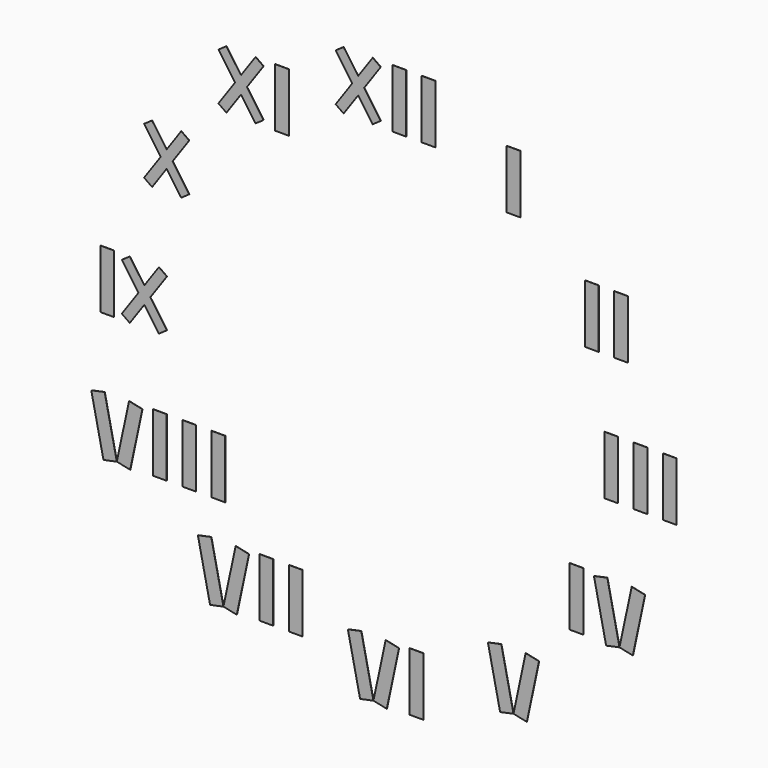
from build123d import *

# Parameters (mm, degrees)
F1_W      = 35
F1_H      = 150
F13_DEPTH = 0.5
F2_W      = 35
F2_H      = 150
F3_W      = 35
F3_H      = 150
F4_W      = 35
F4_H      = 150
F6_W      = 35
F6_H      = 150
F7_W      = 35
F7_H      = 150
F8_W      = 35
F8_H      = 150
F9_W      = 35
F9_H      = 150
F11_W     = 35
F11_H     = 150
F12_W     = 35
F12_H     = 150


with BuildPart() as f13:
    # F1 (on Front) → F13 (new body)
    with BuildSketch(Plane.XZ):
        with Locations((325, 562.9165124599)):
            Rectangle(F1_W, F1_H)
    extrude(amount=F13_DEPTH)


with BuildPart() as f13b:
    # F2 (on Front) → F13, piece 2 (new body)
    with BuildSketch(Plane.XZ):
        with Locations((525.4165124599, 325)):
            Rectangle(F2_W, F2_H)
    extrude(amount=F13_DEPTH)


with BuildPart() as f13c:
    # F2 (on Front) → F13, piece 3 (new body)
    with BuildSketch(Plane.XZ):
        with Locations((600.4165124599, 325)):
            Rectangle(F2_W, F2_H)
    extrude(amount=F13_DEPTH)


with BuildPart() as f13d:
    # F3 (on Front) → F13, piece 4 (new body)
    with BuildSketch(Plane.XZ):
        with Locations((575, 0)):
            Rectangle(F3_W, F3_H)
    extrude(amount=F13_DEPTH)


with BuildPart() as f13e:
    # F3 (on Front) → F13, piece 5 (new body)
    with BuildSketch(Plane.XZ):
        with Locations((650, 0)):
            Rectangle(F3_W, F3_H)
    extrude(amount=F13_DEPTH)


with BuildPart() as f13f:
    # F3 (on Front) → F13, piece 6 (new body)
    with BuildSketch(Plane.XZ):
        with Locations((725, 0)):
            Rectangle(F3_W, F3_H)
    extrude(amount=F13_DEPTH)


with BuildPart() as f13g:
    # F4 (on Front) → F13, piece 7 (new body)
    with BuildSketch(Plane.XZ):
        with Locations((486.4008496814, -325)):
            Rectangle(F4_W, F4_H)
    extrude(amount=F13_DEPTH)


with BuildPart() as f13h:
    # F4 (on Front) → F13, piece 8 (new body)
    with BuildSketch(Plane.XZ):
        Polygon((627.587603304, -251.638929945), (596.4008496814, -398.361070055), (630.636015707, -405.6379792337), (661.8227693297, -258.9158391236), align=None)
    extrude(amount=F13_DEPTH)


with BuildPart() as f13i:
    # F4 (on Front) → F13, piece 9 (new body)
    with BuildSketch(Plane.XZ):
        Polygon((565.2140960587, -251.638929945), (530.978930033, -258.9158391236), (562.1656836557, -405.6379792337), (596.4008496814, -398.361070055), align=None)
    extrude(amount=F13_DEPTH)


with BuildPart() as f13j:
    # F5 (on Front) → F13, piece 10 (new body)
    with BuildSketch(Plane.XZ):
        Polygon((356.1867536227, -489.5554424048), (325, -636.2775825149), (359.2351660257, -643.5544916935), (390.4219196483, -496.8323515835), align=None)
    extrude(amount=F13_DEPTH)


with BuildPart() as f13k:
    # F5 (on Front) → F13, piece 11 (new body)
    with BuildSketch(Plane.XZ):
        Polygon((293.8132463773, -489.5554424049), (259.5780803517, -496.8323515835), (290.7648339743, -643.5544916935), (325, -636.2775825149), align=None)
    extrude(amount=F13_DEPTH)


with BuildPart() as f13l:
    # F6 (on Front) → F13, piece 12 (new body)
    with BuildSketch(Plane.XZ):
        with Locations((76.5156627785, -650)):
            Rectangle(F6_W, F6_H)
    extrude(amount=F13_DEPTH)


with BuildPart() as f13m:
    # F6 (on Front) → F13, piece 13 (new body)
    with BuildSketch(Plane.XZ):
        Polygon((-2.2975835988, -576.638929945), (-33.4843372215, -723.361070055), (0.7508288042, -730.6379792337), (31.9375824269, -583.9158391236), align=None)
    extrude(amount=F13_DEPTH)


with BuildPart() as f13n:
    # F6 (on Front) → F13, piece 14 (new body)
    with BuildSketch(Plane.XZ):
        Polygon((-64.6710908441, -576.638929945), (-98.9062568698, -583.9158391236), (-67.7195032472, -730.6379792337), (-33.4843372215, -723.361070055), align=None)
    extrude(amount=F13_DEPTH)


with BuildPart() as f13o:
    # F7 (on Front) → F13, piece 15 (new body)
    with BuildSketch(Plane.XZ):
        with Locations((-307.5, -562.9165124599)):
            Rectangle(F7_W, F7_H)
    extrude(amount=F13_DEPTH)


with BuildPart() as f13p:
    # F7 (on Front) → F13, piece 16 (new body)
    with BuildSketch(Plane.XZ):
        Polygon((-386.3132463773, -489.5554424049), (-417.5, -636.2775825149), (-383.2648339743, -643.5544916935), (-352.0780803517, -496.8323515835), align=None)
    extrude(amount=F13_DEPTH)


with BuildPart() as f13q:
    # F7 (on Front) → F13, piece 17 (new body)
    with BuildSketch(Plane.XZ):
        Polygon((-448.6867536227, -489.5554424049), (-482.9219196483, -496.8323515835), (-451.7351660257, -643.5544916935), (-417.5, -636.2775825149), align=None)
    extrude(amount=F13_DEPTH)


with BuildPart() as f13r:
    # F7 (on Front) → F13, piece 18 (new body)
    with BuildSketch(Plane.XZ):
        with Locations((-232.5, -562.9165124599)):
            Rectangle(F7_W, F7_H)
    extrude(amount=F13_DEPTH)


with BuildPart() as f13s:
    # F8 (on Front) → F13, piece 19 (new body)
    with BuildSketch(Plane.XZ):
        with Locations((-580.4165124599, -325)):
            Rectangle(F8_W, F8_H)
    extrude(amount=F13_DEPTH)


with BuildPart() as f13t:
    # F8 (on Front) → F13, piece 20 (new body)
    with BuildSketch(Plane.XZ):
        Polygon((-659.2297588372, -251.638929945), (-690.4165124599, -398.361070055), (-656.1813464342, -405.6379792337), (-624.9945928115, -258.9158391236), align=None)
    extrude(amount=F13_DEPTH)


with BuildPart() as f13u:
    # F8 (on Front) → F13, piece 21 (new body)
    with BuildSketch(Plane.XZ):
        Polygon((-721.6032660825, -251.638929945), (-755.8384321082, -258.9158391236), (-724.6516784856, -405.6379792337), (-690.4165124599, -398.361070055), align=None)
    extrude(amount=F13_DEPTH)


with BuildPart() as f13v:
    # F8 (on Front) → F13, piece 22 (new body)
    with BuildSketch(Plane.XZ):
        with Locations((-505.4165124599, -325)):
            Rectangle(F8_W, F8_H)
    extrude(amount=F13_DEPTH)


with BuildPart() as f13w:
    # F8 (on Front) → F13, piece 23 (new body)
    with BuildSketch(Plane.XZ):
        with Locations((-430.4165124599, -325)):
            Rectangle(F8_W, F8_H)
    extrude(amount=F13_DEPTH)


with BuildPart() as f13x:
    # F9 (on Front) → F13, piece 24 (new body)
    with BuildSketch(Plane.XZ):
        Polygon((-657.2558830062, 75), (-677.7346841134, 60.6605890912), (-635.2596823595, 0), (-631.8485692054, 4.8715744519), (-611.3697680981, -9.4678364569), (-620, -21.7930849453), (-582.7441169938, -75), (-562.2653158866, -60.6605890912), (-604.7403176405, 0), (-608.1514307946, -4.8715744519), (-628.6302319019, 9.4678364569), (-620, 21.7930849453), align=None)
        Polygon((-631.8485692054, 4.8715744519), (-635.2596823595, 0), (-620, -21.7930849453), (-611.3697680981, -9.4678364569), align=None)
        Polygon((-620, -21.7930849453), (-635.2596823595, 0), (-677.7346841134, -60.6605890912), (-657.2558830062, -75), align=None)
        Polygon((-582.7441169938, 75), (-620, 21.7930849453), (-604.7403176405, 0), (-562.2653158866, 60.6605890912), align=None)
        Polygon((-604.7403176405, 0), (-620, 21.7930849453), (-628.6302319019, 9.4678364569), (-608.1514307946, -4.8715744519), align=None)
    extrude(amount=F13_DEPTH)


with BuildPart() as f13y:
    # F9 (on Front) → F13, piece 25 (new body)
    with BuildSketch(Plane.XZ):
        with Locations((-715.2346841134, 0)):
            Rectangle(F9_W, F9_H)
    extrude(amount=F13_DEPTH)


with BuildPart() as f13z:
    # F10 (on Front) → F13, piece 26 (new body)
    with BuildSketch(Plane.XZ):
        Polygon((-600.1723954661, 400), (-620.6511965733, 385.6605890912), (-578.1761948194, 325), (-574.7650816652, 329.8715744519), (-554.286280558, 315.5321635431), (-562.9165124599, 303.2069150547), (-525.6606294537, 250), (-505.1818283465, 264.3394109088), (-547.6568301004, 325), (-551.0679432545, 320.1284255481), (-571.5467443618, 334.4678364569), (-562.9165124599, 346.7930849453), align=None)
        Polygon((-574.7650816652, 329.8715744519), (-578.1761948194, 325), (-562.9165124599, 303.2069150547), (-554.286280558, 315.5321635431), align=None)
        Polygon((-562.9165124599, 303.2069150547), (-578.1761948194, 325), (-620.6511965733, 264.3394109088), (-600.1723954661, 250), align=None)
        Polygon((-525.6606294537, 400), (-562.9165124599, 346.7930849453), (-547.6568301004, 325), (-505.1818283465, 385.6605890912), align=None)
        Polygon((-547.6568301004, 325), (-562.9165124599, 346.7930849453), (-571.5467443618, 334.4678364569), (-551.0679432545, 320.1284255481), align=None)
    extrude(amount=F13_DEPTH)


with BuildPart() as f13ba:
    # F11 (on Front) → F13, piece 27 (new body)
    with BuildSketch(Plane.XZ):
        Polygon((-409.8732250629, 629.256258422), (-430.3520261702, 614.9168475133), (-387.8770244162, 554.256258422), (-384.4659112621, 559.1278328739), (-363.9871101548, 544.7884219652), (-372.6173420567, 532.4631734768), (-335.3614590505, 479.256258422), (-314.8826579433, 493.5956693308), (-357.3576596972, 554.256258422), (-360.7687728514, 549.3846839701), (-381.2475739586, 563.7240948789), (-372.6173420567, 576.0493433673), align=None)
        Polygon((-384.4659112621, 559.1278328739), (-387.8770244162, 554.256258422), (-372.6173420567, 532.4631734768), (-363.9871101548, 544.7884219652), align=None)
        Polygon((-372.6173420567, 532.4631734768), (-387.8770244162, 554.256258422), (-430.3520261702, 493.5956693308), (-409.8732250629, 479.256258422), align=None)
        Polygon((-335.3614590505, 629.256258422), (-372.6173420567, 576.0493433673), (-357.3576596972, 554.256258422), (-314.8826579433, 614.9168475133), align=None)
        Polygon((-357.3576596972, 554.256258422), (-372.6173420567, 576.0493433673), (-381.2475739586, 563.7240948789), (-360.7687728514, 549.3846839701), align=None)
    extrude(amount=F13_DEPTH)


with BuildPart() as f13bb:
    # F11 (on Front) → F13, piece 28 (new body)
    with BuildSketch(Plane.XZ):
        with Locations((-267.3826579433, 554.256258422)):
            Rectangle(F11_W, F11_H)
    extrude(amount=F13_DEPTH)


with BuildPart() as f13bc:
    # F12 (on Front) → F13, piece 29 (new body)
    with BuildSketch(Plane.XZ):
        Polygon((-109.8732250629, 725), (-130.3520261702, 710.6605890912), (-87.8770244162, 650), (-84.4659112621, 654.8715744519), (-63.9871101548, 640.5321635431), (-72.6173420567, 628.2069150547), (-35.3614590505, 575), (-14.8826579433, 589.3394109088), (-57.3576596972, 650), (-60.7687728514, 645.1284255481), (-81.2475739586, 659.4678364569), (-72.6173420567, 671.7930849453), align=None)
        Polygon((-84.4659112621, 654.8715744519), (-87.8770244162, 650), (-72.6173420567, 628.2069150547), (-63.9871101548, 640.5321635431), align=None)
        Polygon((-72.6173420567, 628.2069150547), (-87.8770244162, 650), (-130.3520261702, 589.3394109088), (-109.8732250629, 575), align=None)
        Polygon((-35.3614590505, 725), (-72.6173420567, 671.7930849453), (-57.3576596972, 650), (-14.8826579433, 710.6605890912), align=None)
        Polygon((-57.3576596972, 650), (-72.6173420567, 671.7930849453), (-81.2475739586, 659.4678364569), (-60.7687728514, 645.1284255481), align=None)
    extrude(amount=F13_DEPTH)


with BuildPart() as f13bd:
    # F12 (on Front) → F13, piece 30 (new body)
    with BuildSketch(Plane.XZ):
        with Locations((32.6173420567, 650)):
            Rectangle(F12_W, F12_H)
    extrude(amount=F13_DEPTH)


with BuildPart() as f13be:
    # F12 (on Front) → F13, piece 31 (new body)
    with BuildSketch(Plane.XZ):
        with Locations((107.6173420567, 650)):
            Rectangle(F12_W, F12_H)
    extrude(amount=F13_DEPTH)


solid = Compound([f13.part, f13b.part, f13c.part, f13d.part, f13e.part, f13f.part, f13g.part, f13h.part, f13i.part, f13j.part, f13k.part, f13l.part, f13m.part, f13n.part, f13o.part, f13p.part, f13q.part, f13r.part, f13s.part, f13t.part, f13u.part, f13v.part, f13w.part, f13x.part, f13y.part, f13z.part, f13ba.part, f13bb.part, f13bc.part, f13bd.part, f13be.part])
